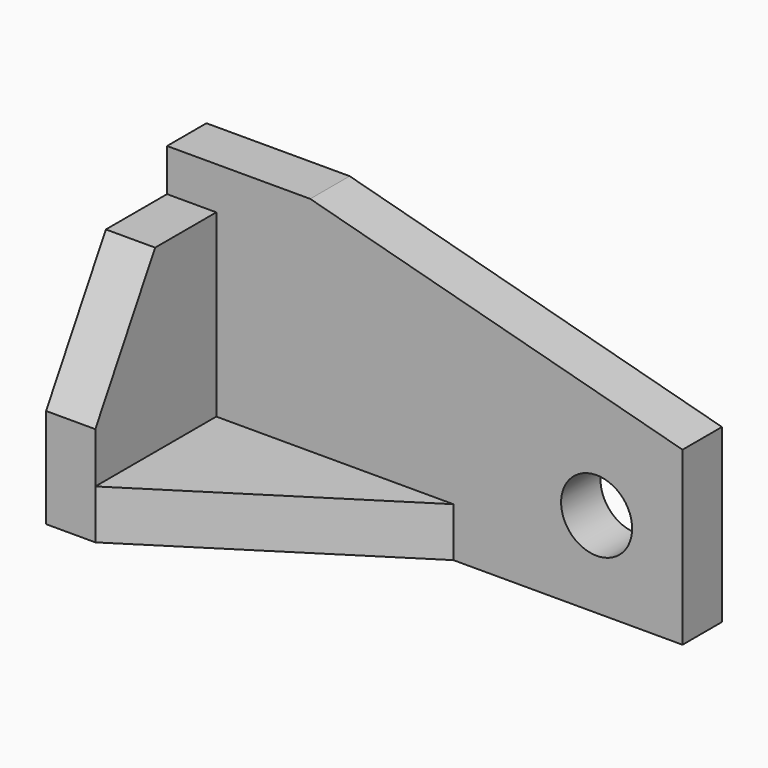
from build123d import *

# Parameters (mm, degrees)
F0_R     = 7.874
F0_W     = 10.922
F0_H     = 28.702
F0_W_2   = 52.578
F0_H_2   = 10.922
F1_DEPTH = 10.922
F2_DEPTH = 44.45
F4_DEPTH = 25.4
F6_DEPTH = 25.4


with BuildPart() as f1:
    # F0 (on Front) → F1 (new body)
    with BuildSketch(Plane.XZ):
        Polygon((-31.75, 22.119206), (-63.5, 22.119206), (-63.5, 12.721206), (-52.578, 12.721206), (-52.578, -15.980794), (-52.578, -27.156794), (0, -27.156794), (0, -38.078794), (50.8, -38.078794), (50.8, 0), align=None)
        with Locations((31.75, -19.028794)):
            Circle(F0_R, mode=Mode.SUBTRACT)
        with Locations((-58.039, -1.629794)):
            Rectangle(F0_W, F0_H)
        Polygon((-52.578, -15.980794), (-63.5, -15.980794), (-63.5, -38.078794), (-52.578, -38.078794), (-52.578, -27.156794), align=None)
        with Locations((-26.289, -32.617794)):
            Rectangle(F0_W_2, F0_H_2)
    extrude(amount=F1_DEPTH)

    # F0 (on Front) → F2 (join)
    with BuildSketch(Plane.XZ):
        with Locations((-58.039, -1.629794)):
            Rectangle(F0_W, F0_H)
        Polygon((-52.578, -15.980794), (-63.5, -15.980794), (-63.5, -38.078794), (-52.578, -38.078794), (-52.578, -27.156794), align=None)
        with Locations((-26.289, -32.617794)):
            Rectangle(F0_W_2, F0_H_2)
    extrude(amount=F2_DEPTH)

    # F3 (on face) → F4 (cut)
    with BuildSketch(Plane.YZ.offset(-52.578)):
        Polygon((-44.45, 12.721206), (-44.45, -15.980794), (-27.878893, 12.721206), align=None)
    extrude(amount=-F4_DEPTH, mode=Mode.SUBTRACT)

    # F5 (on face) → F6 (cut)
    with BuildSketch(Plane.XY.offset(-27.156794)):
        Polygon((0, -10.922), (-52.578, -44.45), (0, -44.45), align=None)
    extrude(amount=-F6_DEPTH, mode=Mode.SUBTRACT)


solid = f1.part
